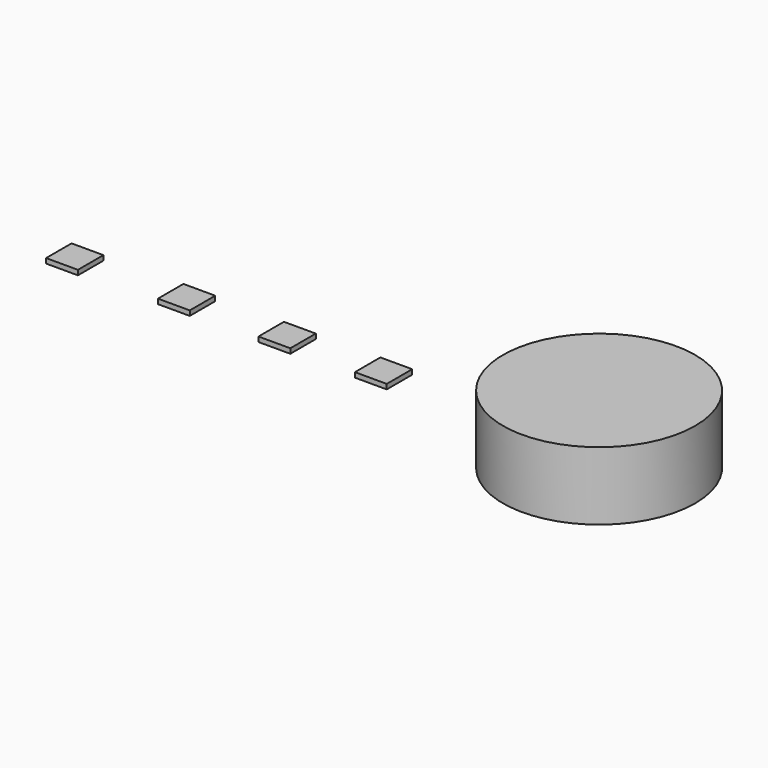
from build123d import *

# Parameters (mm, degrees)
F0_R     = 2.505375
F1_DEPTH = 1.778
F2_W     = 0.830379
F2_H     = 0.830379
F3_DEPTH = 0.127


with BuildPart() as f1:
    # F0 (on Top) → F1 (new body)
    with BuildSketch(Plane.XY):
        Circle(F0_R)
    extrude(amount=F1_DEPTH)


with BuildPart() as f3:
    # F2 (on Top) → F3 (new body)
    with BuildSketch(Plane.XY):
        with Locations((-5.951396, 0.415189)):
            Rectangle(F2_W, F2_H)
    extrude(amount=F3_DEPTH)


with BuildPart() as f4_1:
    # F4: copy of F3
    add(f3.part.moved(Location((-2.5146, 0, 0))))


with BuildPart() as f5_1:
    # F5: copy of F3
    add(f3.part.moved(Location((-5.1562, 0.0254, 0))))


with BuildPart() as f6_1:
    # F6: copy of F3
    add(f3.part.moved(Location((-8.0518, 0, 0))))


solid = Compound([f1.part, f3.part, f4_1.part, f5_1.part, f6_1.part])
